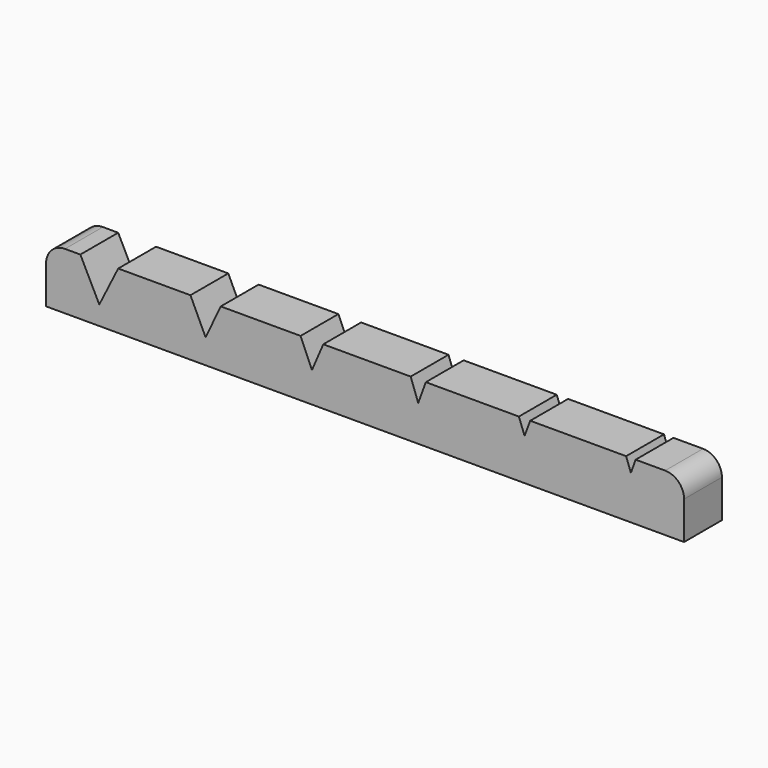
from build123d import *

# Parameters (mm, degrees)
F0_W     = 42.8244
F0_H     = 3.175
F1_DEPTH = 3.81
F3_DEPTH = 3.176
F4_R     = 1.27


with BuildPart() as f1:
    # F0 (on Top) → F1 (new body)
    with BuildSketch(Plane.XY):
        Rectangle(F0_W, F0_H)
    extrude(amount=-F1_DEPTH)

    # F2 (on face) → F3 (cut, through all)
    with BuildSketch(Plane.XZ.offset(1.5875)):
        Polygon((-16.571534, 0), (-19.111534, 0), (-17.841534, -2.54), align=None)
        Polygon((-9.688922, 0), (-11.720922, 0), (-10.704922, -2.159), align=None)
        Polygon((-2.806309, 0), (-4.330309, 0), (-3.568309, -1.778), align=None)
        Polygon((4.076304, 0), (3.060304, 0), (3.568304, -1.397), align=None)
        Polygon((10.704916, -1.016), (11.085916, 0), (10.323916, 0), align=None)
        Polygon((17.841529, -0.889), (18.159029, 0), (17.524029, 0), align=None)
    extrude(amount=-F3_DEPTH, mode=Mode.SUBTRACT)

    # F4
    f4_edges = [f1.edges().sort_by_distance(p)[0] for p in [
        (-21.4122, 0, 0),
        (21.4122, 0, 0),
    ]]
    fillet(f4_edges, radius=F4_R)


solid = f1.part
